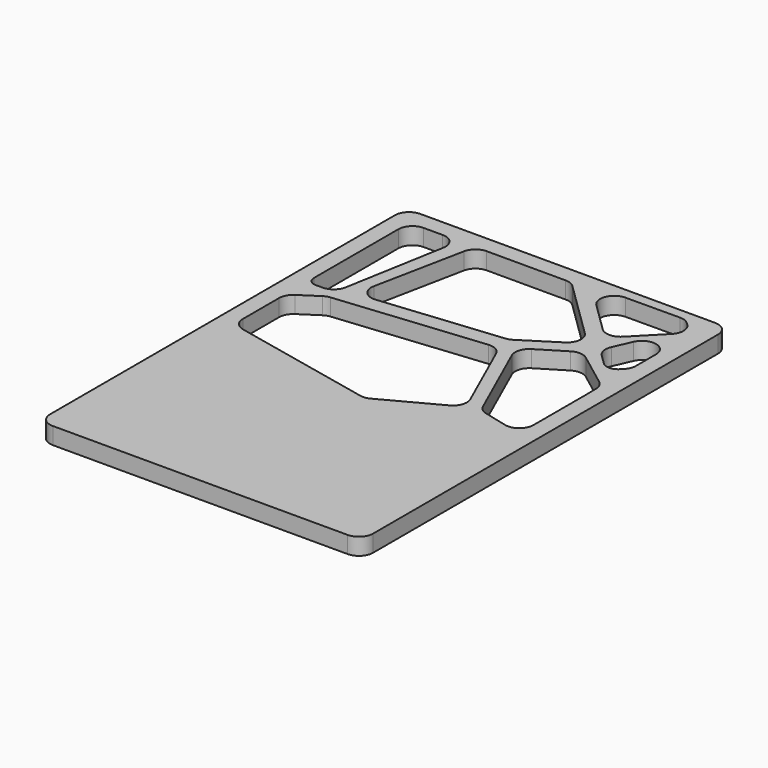
from build123d import *

# Parameters (mm, degrees)
F2_DEPTH = 3
F3_ANGLE = -180


with BuildPart() as f2:
    # F1 (on Top) → F2 (new body)
    with BuildSketch(Plane.XY):
        with BuildLine():
            ThreePointArc((9.5394564345, 61.4916072786), (7.7716894816, 60.7593742316), (7.0394564345, 58.9916072786))
            Line((7.0394564345, 58.9916072786), (7.0394564345, -17.6715264808))
            ThreePointArc((7.0394564345, -17.6715264808), (7.7716894816, -19.4392934337), (9.5394564345, -20.1715264808))
            Line((9.5394564345, -20.1715264808), (61.973710984, -20.1715264808))
            ThreePointArc((61.973710984, -20.1715264808), (63.741477937, -19.4392934337), (64.473710984, -17.6715264808))
            Line((64.473710984, -17.6715264808), (64.473710984, 58.9916072786))
            ThreePointArc((64.473710984, 58.9916072786), (63.741477937, 60.7593742316), (61.973710984, 61.4916072786))
            Line((61.973710984, 61.4916072786), (9.5394564345, 61.4916072786))
        make_face()
        with BuildLine():
            ThreePointArc((10.0394564345, 29.5111155982), (10.339726047, 30.6990491915), (11.1684054122, 31.6016224971))
            Line((11.1684054122, 31.6016224971), (14.3762351945, 33.7054654956))
            ThreePointArc((14.3762351945, 33.7054654956), (14.9139294436, 33.9719729133), (15.4996438847, 34.1026630155))
            Line((15.4996438847, 34.1026630155), (41.488379603, 36.6897513669))
            ThreePointArc((41.488379603, 36.6897513669), (42.9909448679, 36.3642607287), (44.0189190549, 35.2210566343))
            Line((44.0189190549, 35.2210566343), (49.7887253608, 22.2949045332))
            ThreePointArc((49.7887253608, 22.2949045332), (49.8705715629, 20.4647296223), (48.6825547612, 19.0701490101))
            Line((48.6825547612, 19.0701490101), (38.8881494106, 13.8450064155))
            ThreePointArc((38.8881494106, 13.8450064155), (38.0588591774, 13.5750123576), (37.187286277, 13.6063135007))
            Line((37.187286277, 13.6063135007), (12.0153198212, 19.0036871275))
            ThreePointArc((12.0153198212, 19.0036871275), (10.5951903091, 19.8765568437), (10.0394564345, 21.4481258791))
            Line((10.0394564345, 21.4481258791), (10.0394564345, 29.5111155982))
        make_face(mode=Mode.SUBTRACT)
        with BuildLine():
            ThreePointArc((15.9272251247, 58.4916072786), (17.8426196837, 57.5982384383), (18.38909119, 55.5566182253))
            Line((18.38909119, 55.5566182253), (15.2479060665, 37.7787523161))
            ThreePointArc((15.2479060665, 37.7787523161), (14.3926711609, 36.2983468103), (12.7860400011, 35.7137413693))
            Line((12.7860400011, 35.7137413693), (11.5394564345, 35.7137413693))
            ThreePointArc((11.5394564345, 35.7137413693), (10.4787962628, 36.1530811975), (10.0394564345, 37.2137413693))
            Line((10.0394564345, 37.2137413693), (10.0394564345, 55.9916072786))
            ThreePointArc((10.0394564345, 55.9916072786), (10.7716894816, 57.7593742316), (12.5394564345, 58.4916072786))
            Line((12.5394564345, 58.4916072786), (15.9272251247, 58.4916072786))
        make_face(mode=Mode.SUBTRACT)
        with BuildLine():
            Line((42.1746714548, 39.6185510587), (20.7860221636, 37.4893853296))
            ThreePointArc((20.7860221636, 37.4893853296), (18.6852371117, 38.299036692), (18.0873754635, 40.4696114113))
            Line((18.0873754635, 40.4696114113), (21.3054426802, 56.4841289415))
            ThreePointArc((21.3054426802, 56.4841289415), (22.1723549039, 57.9256838227), (23.7564470481, 58.4916072786))
            Line((23.7564470481, 58.4916072786), (37.8007872021, 58.4916072786))
            ThreePointArc((37.8007872021, 58.4916072786), (38.7453269087, 58.3063091477), (39.5498494615, 57.7778830727))
            Line((39.5498494615, 57.7778830727), (49.7784843846, 47.7623415937))
            ThreePointArc((49.7784843846, 47.7623415937), (50.5156898059, 45.7143923011), (49.3682772196, 43.8647943731))
            Line((49.3682772196, 43.8647943731), (43.265884217, 39.994984051))
            ThreePointArc((43.265884217, 39.994984051), (42.7423014517, 39.7429249823), (42.1746714548, 39.6185510587))
        make_face(mode=Mode.SUBTRACT)
        with BuildLine():
            ThreePointArc((46.0133442347, 36.2574461736), (45.9085359015, 38.0173085241), (46.991124046, 39.4087477749))
            Line((46.991124046, 39.4087477749), (51.6493053984, 42.2598926234))
            ThreePointArc((51.6493053984, 42.2598926234), (53.0758807488, 42.6246485541), (54.4603215443, 42.1231629578))
            Line((54.4603215443, 42.1231629578), (60.4469597614, 37.6055030683))
            ThreePointArc((60.4469597614, 37.6055030683), (61.1709104619, 36.7403261682), (61.4408153873, 35.6449782708))
            Line((61.4408153873, 35.6449782708), (61.4734654473, 33.3155527949))
            ThreePointArc((61.4734654473, 33.3155527949), (61.4736495991, 33.2980344991), (61.473710984, 33.2805153429))
            Line((61.473710984, 33.2805153429), (61.473710984, 21.7292172013))
            ThreePointArc((61.473710984, 21.7292172013), (60.5127092735, 19.7590689163), (58.3685235721, 19.3035733287))
            Line((58.3685235721, 19.3035733287), (54.162405597, 20.35298115))
            ThreePointArc((54.162405597, 20.35298115), (53.161382251, 20.8628779095), (52.4846958892, 21.7596153363))
            Line((52.4846958892, 21.7596153363), (46.0133442347, 36.2574461736))
        make_face(mode=Mode.SUBTRACT)
        with BuildLine():
            Line((57.524509199, 42.3068744408), (55.8126571334, 43.9830634434))
            ThreePointArc((55.8126571334, 43.9830634434), (55.1067308347, 45.2970774673), (55.2747666339, 46.7792140212))
            Line((55.2747666339, 46.7792140212), (56.6867582251, 49.9767966496))
            ThreePointArc((56.6867582251, 49.9767966496), (59.4897623878, 51.4130802722), (61.473710984, 48.9669218659))
            Line((61.473710984, 48.9669218659), (61.473710984, 44.5015785165))
            ThreePointArc((61.473710984, 44.5015785165), (61.2884128531, 43.5570388099), (60.7599867781, 42.7525162571))
            Line((60.7599867781, 42.7525162571), (60.3527796418, 42.3366452686))
            ThreePointArc((60.3527796418, 42.3366452686), (58.9448101607, 41.736005867), (57.524509199, 42.3068744408))
        make_face(mode=Mode.SUBTRACT)
        with BuildLine():
            Line((51.0285760641, 50.1903671406), (45.7683108872, 55.3410450625))
            ThreePointArc((45.7683108872, 55.3410450625), (45.2002064135, 58.0657974579), (47.504283237, 59.6272865873))
            Line((47.504283237, 59.6272865873), (57.2054807654, 59.6780824029))
            ThreePointArc((57.2054807654, 59.6780824029), (58.1570472763, 59.4952834054), (58.9676329344, 58.9643924665))
            Line((58.9676329344, 58.9643924665), (59.3005865812, 58.6383752525))
            ThreePointArc((59.3005865812, 58.6383752525), (60.0513858333, 56.8784134011), (59.337800116, 55.1030371989))
            Line((59.337800116, 55.1030371989), (54.5639141177, 50.2275806753))
            ThreePointArc((54.5639141177, 50.2275806753), (52.8039522663, 49.4767814233), (51.0285760641, 50.1903671406))
        make_face(mode=Mode.SUBTRACT)
    extrude(amount=F2_DEPTH)


with BuildPart() as f3_1:
    # F3: copy of F2
    add(f2.part.rotate(Axis((35.7565837093, -20.1715264808, 3), (1, 0, 0)), F3_ANGLE))


solid = f2.part
